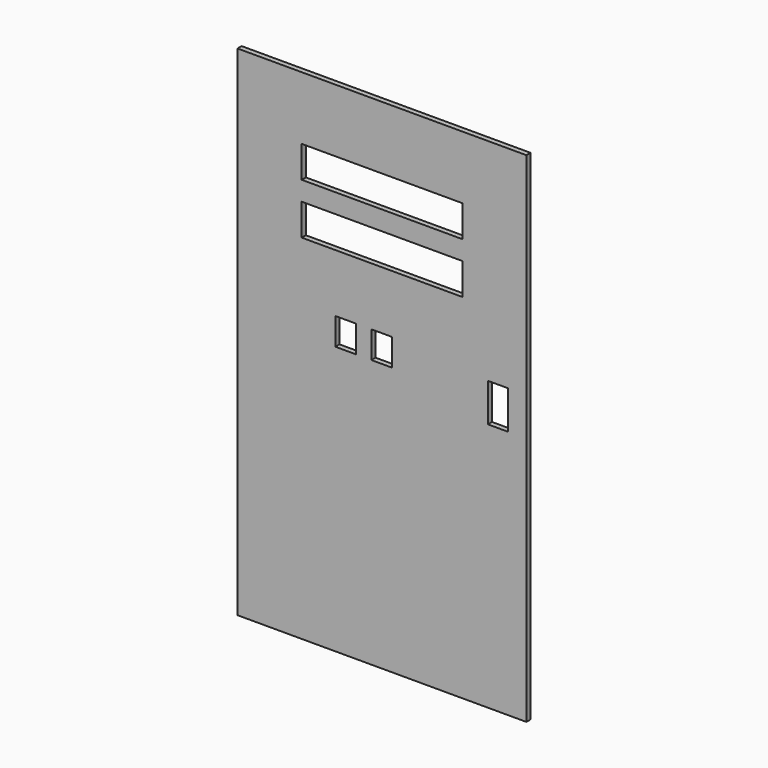
from build123d import *

# Parameters (mm, degrees)
F0_W     = 279.4
F0_H     = 482.6
F0_W_2   = 19.951616
F0_H_2   = 26.186477
F0_W_3   = 19.951598
F0_W_4   = 155.703895
F0_H_3   = 30.60846
F0_W_5   = 19.220256
F0_H_4   = 37.062008
F1_DEPTH = 5


with BuildPart() as f1:
    # F0 (on Front) → F1 (new body)
    with BuildSketch(Plane.XZ):
        Rectangle(F0_W, F0_H)
        with Locations((-35.118891, 31.193768)):
            Rectangle(F0_W_2, F0_H_2, mode=Mode.SUBTRACT)
        with Locations((-0.203586, 31.193768)):
            Rectangle(F0_W_3, F0_H_2, mode=Mode.SUBTRACT)
        with Locations((0.261803, 115.733497)):
            Rectangle(F0_W_4, F0_H_3, mode=Mode.SUBTRACT)
        with Locations((112.11833, 18.531004)):
            Rectangle(F0_W_5, F0_H_4, mode=Mode.SUBTRACT)
        with Locations((0.261803, 164.973207)):
            Rectangle(F0_W_4, F0_H_3, mode=Mode.SUBTRACT)
    extrude(amount=F1_DEPTH)


solid = f1.part
